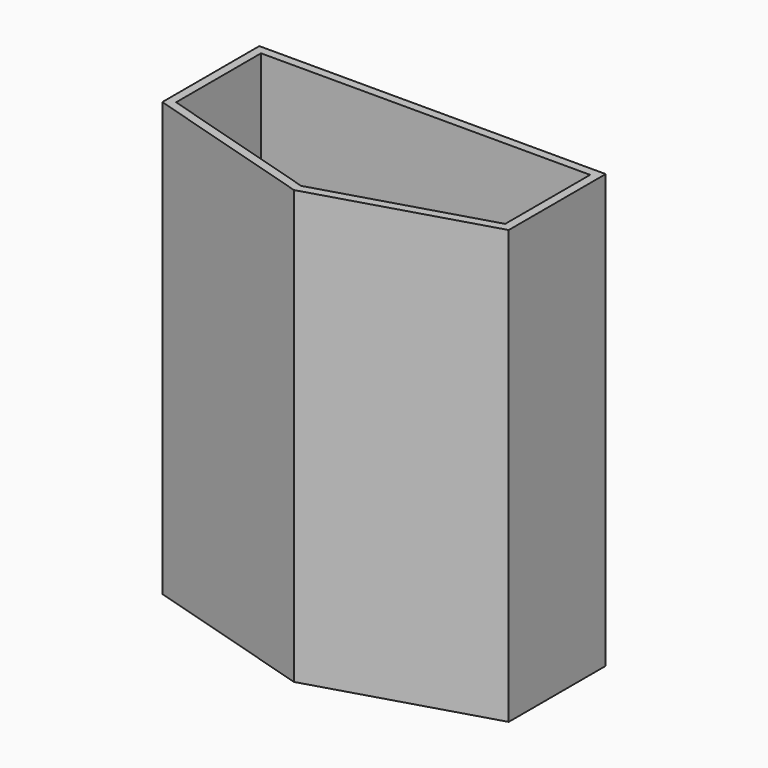
from build123d import *

# Parameters (mm, degrees)
F1_DEPTH = 12.5
F2_T     = -0.5


with BuildPart() as f1:
    # F0 (on Top) → F1 (new body, symmetric)
    with BuildSketch(Plane.XY):
        Polygon((-10, 3), (0, 0), (10, 3), (10, 10), (-10, 10), align=None)
    extrude(amount=F1_DEPTH, both=True)

    # F2
    f2_openings = [f1.faces().sort_by_distance(p)[0] for p in [
        (0, 5.705882, 12.5),
    ]]
    offset(amount=F2_T, openings=f2_openings)


solid = f1.part
